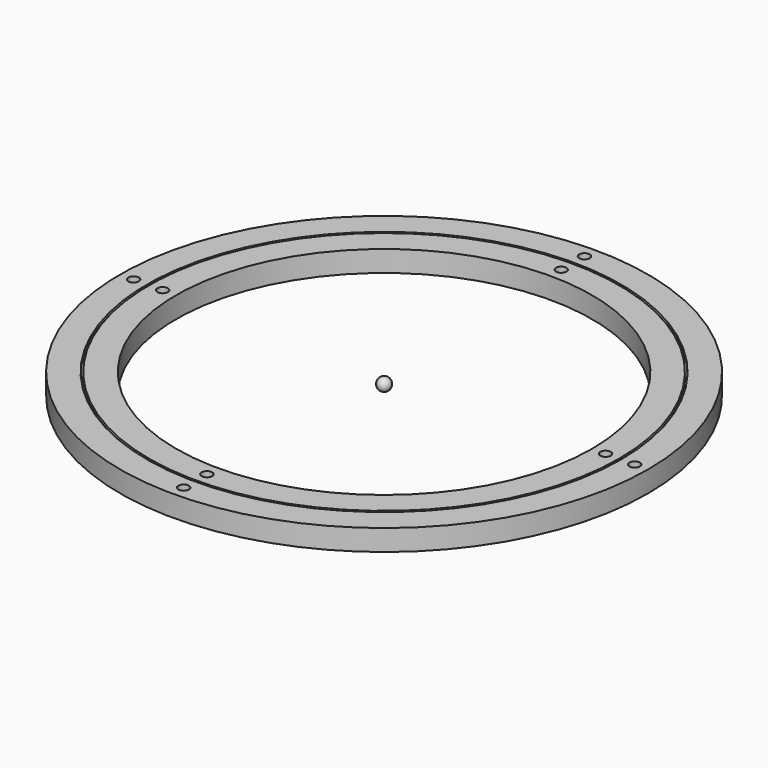
from build123d import *

# Parameters (mm, degrees)
F1_R     = 125
F1_R_2   = 2.5
F1_R_3   = 112.25
F2_DEPTH = 5
F3_R     = 111.25
F3_R_2   = 2.5
F3_R_3   = 98.5
F4_DEPTH = 5


with BuildPart() as f2:
    # F1 (on Top) → F2 (new body, symmetric)
    with BuildSketch(Plane.XY):
        Circle(F1_R)
        with Locations((0, -118.625)):
            Circle(F1_R_2, mode=Mode.SUBTRACT)
        with Locations((-118.625, 0)):
            Circle(F1_R_2, mode=Mode.SUBTRACT)
        Circle(F1_R_3, mode=Mode.SUBTRACT)
        with Locations((118.625, 0)):
            Circle(F1_R_2, mode=Mode.SUBTRACT)
        with Locations((0, 118.625)):
            Circle(F1_R_2, mode=Mode.SUBTRACT)
    extrude(amount=F2_DEPTH, both=True)


with BuildPart() as f4:
    # F3 (on Top) → F4 (new body, symmetric)
    with BuildSketch(Plane.XY):
        Circle(F3_R)
        with Locations((0, -104.875)):
            Circle(F3_R_2, mode=Mode.SUBTRACT)
        with Locations((-104.875, 0)):
            Circle(F3_R_2, mode=Mode.SUBTRACT)
        Circle(F3_R_3, mode=Mode.SUBTRACT)
        with Locations((104.875, 0)):
            Circle(F3_R_2, mode=Mode.SUBTRACT)
        with Locations((0, 104.875)):
            Circle(F3_R_2, mode=Mode.SUBTRACT)
    extrude(amount=F4_DEPTH, both=True)


with BuildPart() as f6:
    # F5 (on Front) → F6 (revolve)
    with BuildSketch(Plane.XZ):
        Polygon((115.9926406871, 0), (111.75, 4.2426406871), (107.5073593129, 0), (111.75, -4.2426406871), align=None)
    revolve(axis=Axis((0, 0, 0), (0, 0, -1)))


with BuildPart() as f2_1:
    add(f2.part)

    # F7: cut F6
    add(f6.part, mode=Mode.SUBTRACT)


with BuildPart() as f4_1:
    add(f4.part)

    # F7: cut F6
    add(f6.part, mode=Mode.SUBTRACT)


with BuildPart() as f9:
    # F8 (on Front) → F9 (revolve)
    with BuildSketch(Plane.XZ):
        with BuildLine():
            Line((0, 3), (0, -3))
            ThreePointArc((0, -3), (3, 0), (0, 3))
        make_face()
    revolve(axis=Axis((0, 0, 0), (0, 0, -1)))


solid = Compound([f2_1.part, f4_1.part, f9.part])
